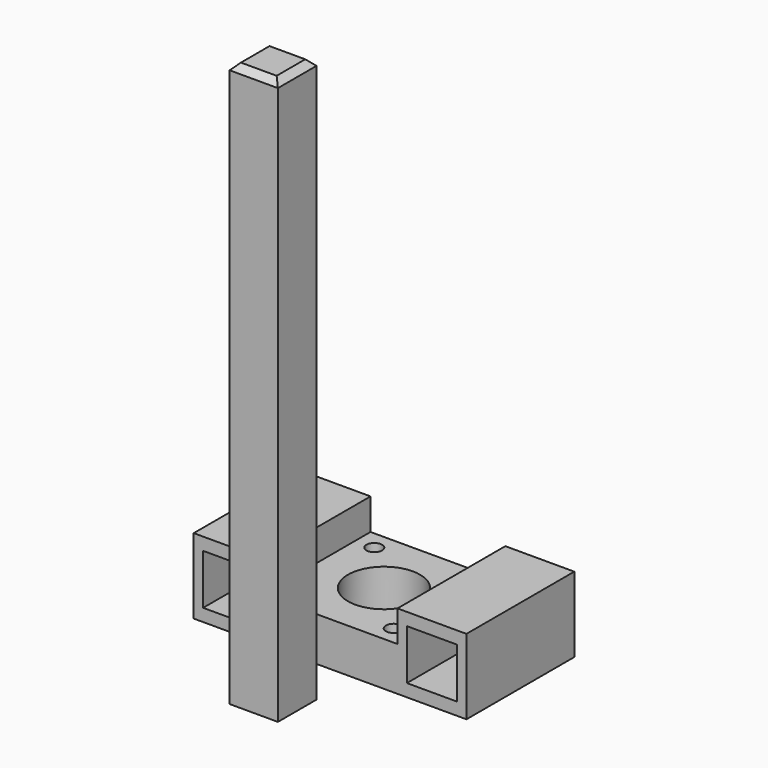
from build123d import *

# Parameters (mm, degrees)
F0_W     = 43
F0_H     = 43
F0_R     = 2.5
F0_R_2   = 11.5
F1_DEPTH = 14
F0_W_2   = 22
F2_DEPTH = 24
F3_W     = 16
F3_H     = 16
F4_DEPTH = 43
F0_W_3   = 15.4
F0_H_2   = 15.4
F5_DEPTH = 180
F6_SIZE  = 2


with BuildPart() as f1:
    # F0 (on Top) → F1 (new body)
    with BuildSketch(Plane.XY):
        Rectangle(F0_W, F0_H)
        with Locations((-15.5, -15.5)):
            Circle(F0_R, mode=Mode.SUBTRACT)
        with Locations((15.5, -15.5)):
            Circle(F0_R, mode=Mode.SUBTRACT)
        with Locations((-15.5, 15.5)):
            Circle(F0_R, mode=Mode.SUBTRACT)
        Circle(F0_R_2, mode=Mode.SUBTRACT)
        with Locations((15.5, 15.5)):
            Circle(F0_R, mode=Mode.SUBTRACT)
    extrude(amount=F1_DEPTH)

    # F0 (on Top) → F2 (join)
    with BuildSketch(Plane.XY):
        with Locations((-32.5, 0)):
            Rectangle(F0_W_2, F0_H)
        with Locations((32.5, 0)):
            Rectangle(F0_W_2, F0_H)
    extrude(amount=F2_DEPTH)

    # F3 (on face) → F4 (cut, through all)
    with BuildSketch(Plane.XZ.offset(21.5)):
        with Locations((-32.5, 12)):
            Rectangle(F3_W, F3_H)
        with Locations((32.5, 12)):
            Rectangle(F3_W, F3_H)
    extrude(amount=-F4_DEPTH, mode=Mode.SUBTRACT)


with BuildPart() as f5:
    # F0 (on Top) → F5 (new body)
    with BuildSketch(Plane.XY):
        with Locations((0, -44.232037)):
            Rectangle(F0_W_3, F0_H_2)
    extrude(amount=F5_DEPTH)

    # F6
    f6_edges = [f5.edges().sort_by_distance(p)[0] for p in [
        (0, -51.932037, 180),
        (7.7, -44.232037, 180),
        (-7.7, -44.232037, 180),
        (0, -36.532037, 180),
    ]]
    chamfer(f6_edges, length=F6_SIZE)


solid = Compound([f1.part, f5.part])
